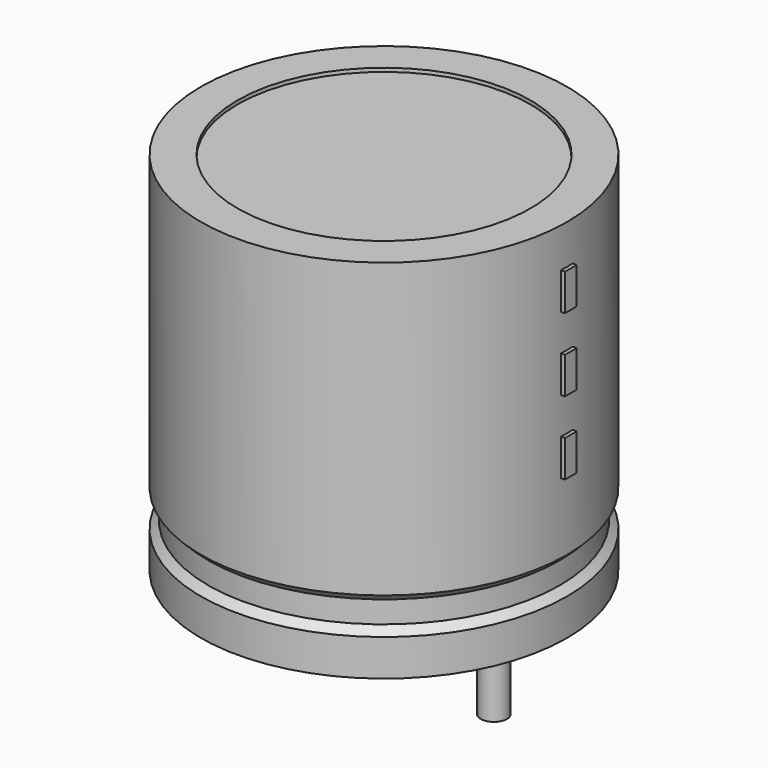
from build123d import *

# Parameters (mm, degrees)
SKETCH002_W  = 5.75
SKETCH002_H  = 12.25
SKETCH003_R  = 0.45
PAD_DEPTH    = 4.25
SKETCH004_W  = 0.5
SKETCH004_H  = 1.25
PAD001_DEPTH = 6.375


with BuildPart() as revolution:
    # Sketch → Revolution (revolve)
    with BuildSketch(Plane.XZ):
        Polygon((-2.5, 0.1), (-2.5, 1.35), (-2.25, 1.6), (-2.25, 2.35), (-2.5, 2.6), (-2.5, 12.6), (-1.25, 12.6), (-1.25, 0.1), align=None)
    revolve(axis=Axis((3.75, 0, 7.548619), (0, 0, -1)))


with BuildPart() as revolution001:
    # Sketch002 → Revolution001 (revolve)
    with BuildSketch(Plane.XZ):
        with Locations((0.875, 6.35)):
            Rectangle(SKETCH002_W, SKETCH002_H)
    revolve(axis=Axis((3.75, 0, 4.680116), (0, 0, -1)))


with BuildPart() as pad:
    # Sketch003 → Pad (new body)
    with BuildSketch(Plane.XY.offset(1.25)):
        Circle(SKETCH003_R)
        with Locations((7.5, 0)):
            Circle(SKETCH003_R)
    extrude(amount=-PAD_DEPTH)


with BuildPart() as pad001:
    # Sketch004 → Pad001 (new body)
    with BuildSketch(Plane.YZ.offset(3.75)):
        with Locations((0, 5.625)):
            Rectangle(SKETCH004_W, SKETCH004_H)
        with Locations((0, 8.125)):
            Rectangle(SKETCH004_W, SKETCH004_H)
        with Locations((0, 10.625)):
            Rectangle(SKETCH004_W, SKETCH004_H)
    extrude(amount=PAD001_DEPTH)


solid = Compound([revolution.part, revolution001.part, pad.part, pad001.part])
